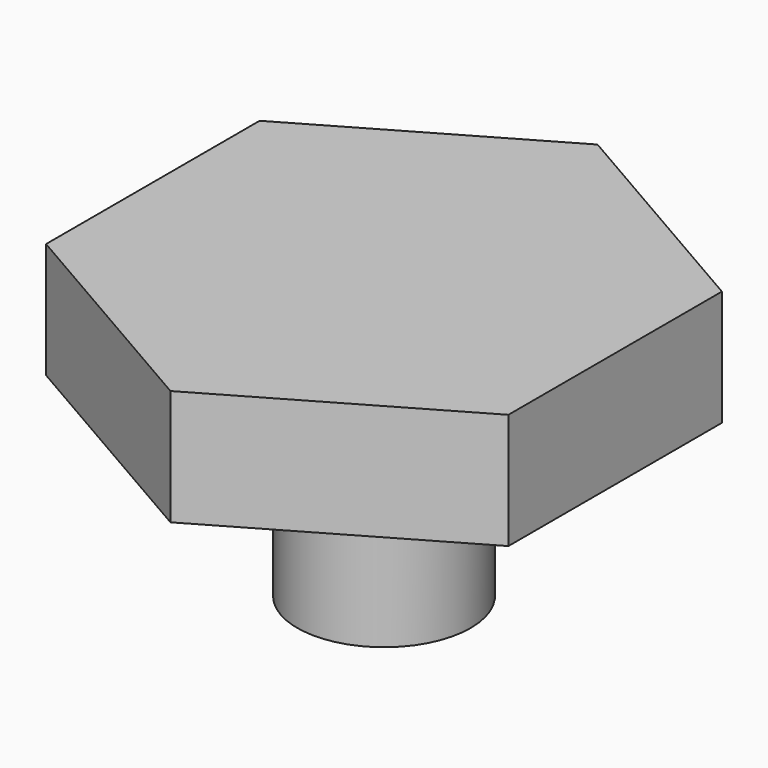
from build123d import *

# Parameters (mm, degrees)
SKETCH_R     = 7.5
SKETCH_R_2   = 2.5
PAD_DEPTH    = 15
PAD001_DEPTH = 10


with BuildPart() as part:
    # Sketch → Pad (new body)
    with BuildSketch(Plane.XY):
        Circle(SKETCH_R)
        Circle(SKETCH_R_2, mode=Mode.SUBTRACT)
    extrude(amount=-PAD_DEPTH)

    # Sketch001 → Pad001 (join)
    with BuildSketch(Plane.XY):
        Polygon((20, 11.547005), (0, 23.094011), (-20, 11.547005), (-20, -11.547005), (0, -23.094011), (20, -11.547005), align=None)
    extrude(amount=PAD001_DEPTH)


solid = part.part
